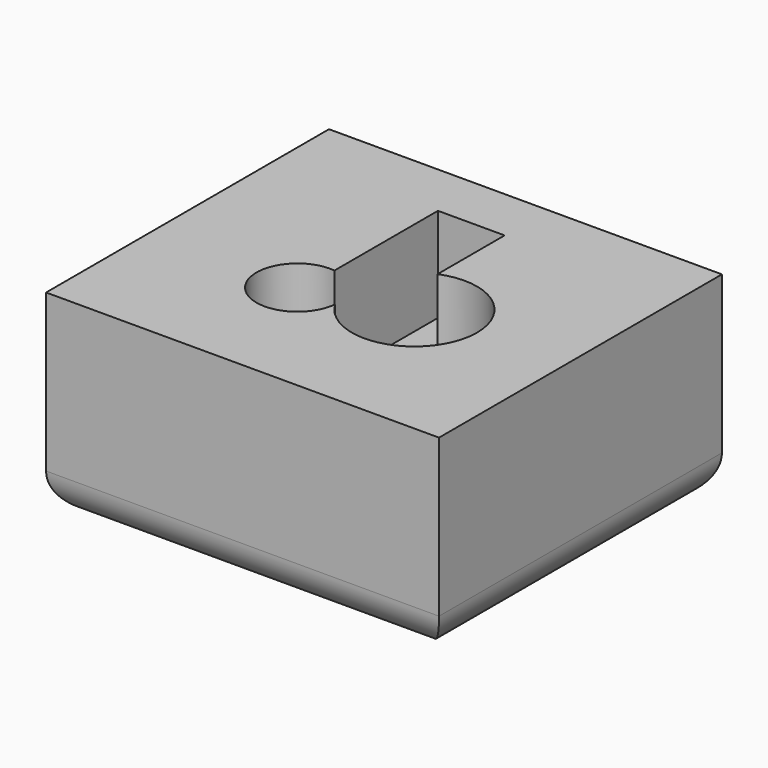
from build123d import *

# Parameters (mm, degrees)
F0_W     = 50
F0_H     = 45
F1_DEPTH = 25
F3_DEPTH = 12
F4_R     = 5


with BuildPart() as f1:
    # F0 (on Top) → F1 (new body)
    with BuildSketch(Plane.XY):
        with Locations((2.5, 2.5)):
            Rectangle(F0_W, F0_H)
    extrude(amount=F1_DEPTH)

    # F2 (on face) → F3 (cut)
    with BuildSketch(Plane.XY.offset(25)):
        with BuildLine():
            ThreePointArc((1.5188633246, -4.0508734179), (1.5351749633, -3.8134761459), (1.5406159691, -3.5755813587))
            ThreePointArc((1.5406159691, -3.5755813587), (1.2521629282, -1.8671692612), (0.4187848362, -0.3481702463))
            ThreePointArc((0.4187848362, -0.3481702463), (0.7408484381, -2.2672537264), (1.5188633246, -4.0508734179))
        make_face()
        with BuildLine():
            ThreePointArc((0.4187848362, -0.3481702463), (1.2521629282, -1.8671692612), (1.5406159691, -3.5755813587))
            ThreePointArc((1.5406159691, -3.5755813587), (1.5351749633, -3.8134761459), (1.5188633246, -4.0508734179))
            ThreePointArc((1.5188633246, -4.0508734179), (10.4718881616, -7.6790094348), (16.3330176423, 0))
            ThreePointArc((16.3330176423, 0), (12.8314237876, 6.5947473606), (5.4069776088, 7.3881269744))
            Line((5.4069776088, 7.3881269744), (5.4069776088, 1.5949606824))
            Line((5.4069776088, 1.5949606824), (0.5725780424, 1.5949606824))
            ThreePointArc((0.5725780424, 1.5949606824), (0.4359857319, 0.628119961), (0.4187848362, -0.3481702463))
        make_face()
        with BuildLine():
            ThreePointArc((1.5188633246, -4.0508734179), (0.7408484381, -2.2672537264), (0.4187848362, -0.3481702463))
            ThreePointArc((0.4187848362, -0.3481702463), (-1.1358159194, 0.9730272564), (-3.078892131, 1.5949606824))
            ThreePointArc((-3.078892131, 1.5949606824), (-7.6975474715, -6.8613357478), (1.5188633246, -4.0508734179))
        make_face()
        with BuildLine():
            ThreePointArc((-3.078892131, 1.5949606824), (-1.1358159194, 0.9730272564), (0.4187848362, -0.3481702463))
            ThreePointArc((0.4187848362, -0.3481702463), (0.4359857319, 0.628119961), (0.5725780424, 1.5949606824))
            Line((0.5725780424, 1.5949606824), (-3.078892131, 1.5949606824))
        make_face()
        with BuildLine():
            Line((-3.078892131, 18.0523265153), (-3.078892131, 1.5949606824))
            Line((-3.078892131, 1.5949606824), (0.5725780424, 1.5949606824))
            ThreePointArc((0.5725780424, 1.5949606824), (2.2598502763, 5.1006686576), (5.4069776088, 7.3881269744))
            Line((5.4069776088, 7.3881269744), (5.4069776088, 18.0523265153))
            Line((5.4069776088, 18.0523265153), (-3.078892131, 18.0523265153))
        make_face()
        with BuildLine():
            ThreePointArc((5.4069776088, 7.3881269744), (2.2598502763, 5.1006686576), (0.5725780424, 1.5949606824))
            Line((0.5725780424, 1.5949606824), (5.4069776088, 1.5949606824))
            Line((5.4069776088, 1.5949606824), (5.4069776088, 7.3881269744))
        make_face()
    extrude(amount=-F3_DEPTH, mode=Mode.SUBTRACT)

    # F4
    f4_edges = [f1.edges().sort_by_distance(p)[0] for p in [
        (-22.5, 2.5, 0),
        (2.5, 25, 0),
        (2.5, -20, 0),
        (27.5, 2.5, 0),
    ]]
    fillet(f4_edges, radius=F4_R)


solid = f1.part
